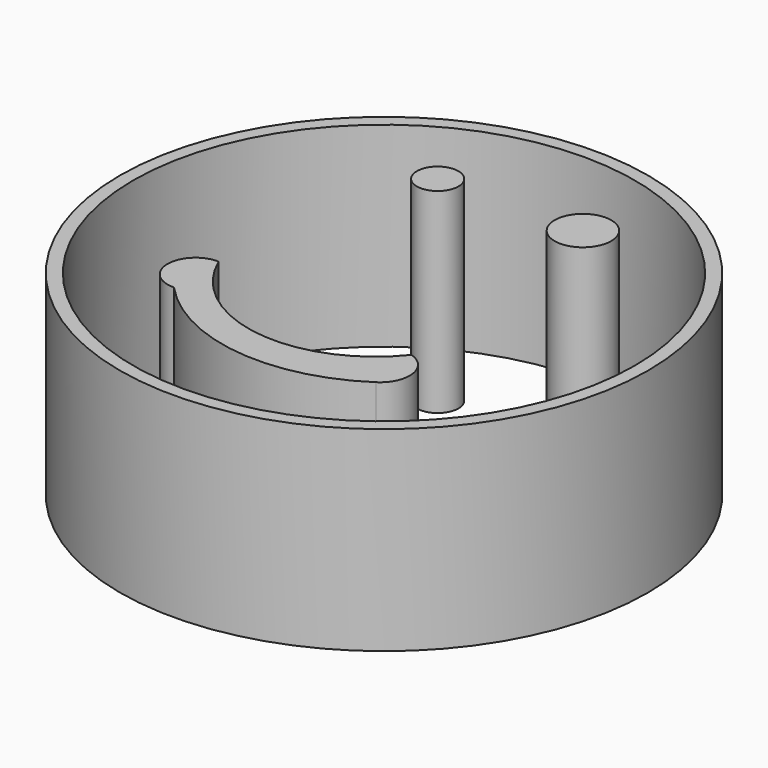
from build123d import *

# Parameters (mm, degrees)
F0_R     = 33.783031
F0_R_2   = 32.08303
F0_R_3   = 2.654204
F0_R_4   = 3.622782
F1_DEPTH = 25


with BuildPart() as f1:
    # F0 (on Top) → F1 (new body)
    with BuildSketch(Plane.XY):
        Circle(F0_R)
        Circle(F0_R_2, mode=Mode.SUBTRACT)
        with Locations((-8.5429, 19.260356)):
            Circle(F0_R_3)
        with Locations((9.785503, 19.571008)):
            Circle(F0_R_4)
        with BuildLine():
            ThreePointArc((13.202664, -12.115385), (-1.678887, -18.095236), (-14.445267, -8.387574))
            ThreePointArc((-14.445267, -8.387574), (-18.112163, -11.960059), (-14.445267, -15.532545))
            ThreePointArc((-14.445267, -15.532545), (-0.785035, -22.507788), (14.134616, -18.949704))
            ThreePointArc((14.134616, -18.949704), (15.847508, -15.235426), (13.202664, -12.115385))
        make_face()
    extrude(amount=F1_DEPTH)


solid = f1.part
